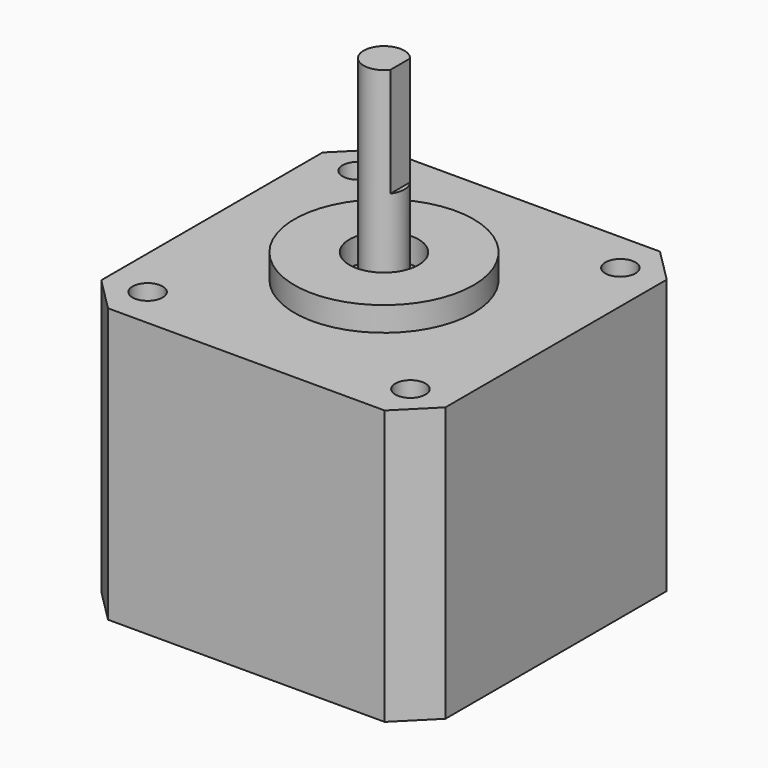
from build123d import *

# Parameters (mm, degrees)
F2_DEPTH      = 33.7
F3_R          = 11
F4_DEPTH      = 3
F5_R          = 4.25
F5_R_2        = 2.5
F6_DEPTH      = 3.1
F7_DEPTH      = 21
F7_DEPTH_BACK = 25.4
F9_DEPTH      = 13.4
F10_R         = 1.85
F11_DEPTH     = 4.75


with BuildPart() as f2:
    # F1 (on face) → F2 (new body)
    with BuildSketch(Plane.XY):
        Polygon((8.1, -21.15), (8.1, -18.0250372231), (-8.1, -18.0250372231), (-8.1, -21.15), (0, -21.15), align=None)
        Polygon((-8.1, -18.0250372231), (8.1, -18.0250372231), (8.1, -21.15), (17, -21.15), (21.15, -17), (21.15, 0), (21.15, 17), (17, 21.15), (0, 21.15), (-17, 21.15), (-21.15, 17), (-21.15, 0), (-21.15, -17), (-17, -21.15), (-8.1, -21.15), align=None)
    extrude(amount=F2_DEPTH)

    # F3 (on face) → F4 (join)
    with BuildSketch(Plane.XY.offset(33.7)):
        Circle(F3_R)
    extrude(amount=F4_DEPTH)

    # F5 (on face) → F6 (cut)
    with BuildSketch(Plane.XY.offset(36.7)):
        Circle(F5_R)
        Circle(F5_R_2, mode=Mode.SUBTRACT)
        Circle(F5_R_2)
    extrude(amount=-F6_DEPTH, mode=Mode.SUBTRACT)

    # F5 (on face) → F7 (join, two sides)
    with BuildSketch(Plane.XY.offset(36.7)) as f7_sk:
        Circle(F5_R_2)
    extrude(amount=F7_DEPTH)
    extrude(f7_sk.sketch, amount=-F7_DEPTH_BACK)

    # F8 (on face) → F9 (cut)
    with BuildSketch(Plane.XY.offset(57.7)):
        with BuildLine():
            Line((2, 1.5), (2, 0))
            Line((2, 0), (2, -1.5))
            ThreePointArc((2, -1.5), (2.3717082451, -0.790569415), (2.5, 0))
            ThreePointArc((2.5, 0), (2.3717082451, 0.790569415), (2, 1.5))
        make_face()
    extrude(amount=-F9_DEPTH, mode=Mode.SUBTRACT)

    # F10 (on face) → F11 (cut)
    with BuildSketch(Plane.XY.offset(33.7)):
        with Locations((-16.15, 16.1278136075)):
            Circle(F10_R)
        with Locations((16.15, 16.1278136075)):
            Circle(F10_R)
        with Locations((16.15, -16.1278136075)):
            Circle(F10_R)
        with Locations((-16.15, -16.1278136075)):
            Circle(F10_R)
    extrude(amount=-F11_DEPTH, mode=Mode.SUBTRACT)


solid = f2.part
